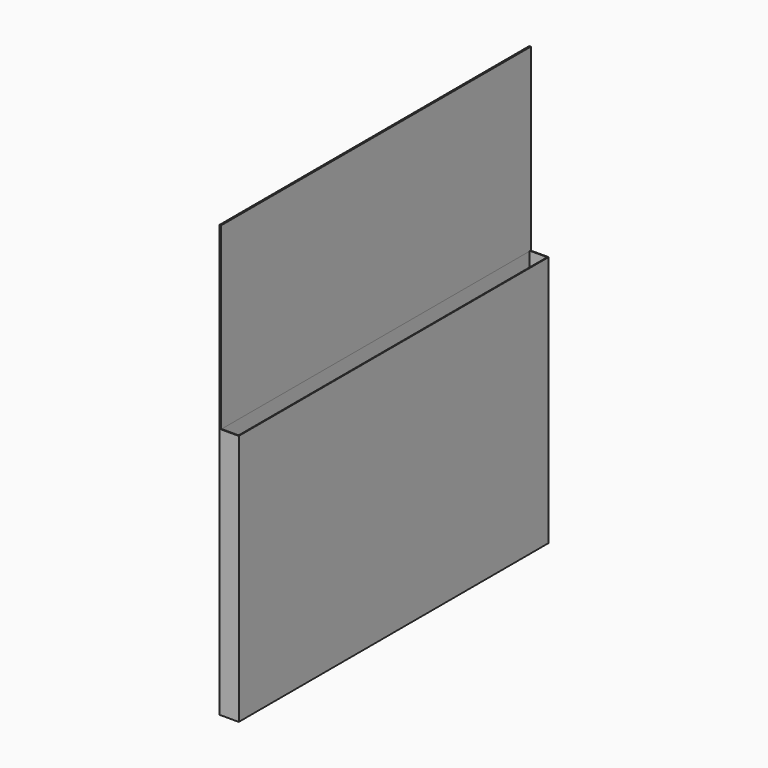
from build123d import *

# Parameters (mm, degrees)
F0_W     = 6.35
F0_H     = 57.15
F1_DEPTH = 127
F2_W     = 5.842
F2_H     = 126.492
F3_DEPTH = 53.086
F5_DEPTH = 25.4
F6_W     = 6.35
F6_H     = 24.5786048472
F7_DEPTH = 2.54
F8_W     = 127
F8_H     = 58.8536623478
F9_DEPTH = 0.508


with BuildPart() as f1:
    # F0 (on Front) → F1 (new body)
    with BuildSketch(Plane.XZ):
        with Locations((3.175, 28.575)):
            Rectangle(F0_W, F0_H)
    extrude(amount=F1_DEPTH)


with BuildPart() as f3:
    # F2 (on face) → F3 (new body)
    with BuildSketch(Plane.XY.offset(57.15)):
        with Locations((3.175, -63.5)):
            Rectangle(F2_W, F2_H)
    extrude(amount=-F3_DEPTH)


with BuildPart() as f1_1:
    add(f1.part)

    # F4: cut F3
    add(f3.part, mode=Mode.SUBTRACT)

    # F5 (add): a face of the model
    f5_faces = [f1_1.faces().sort_by_distance(p)[0] for p in [
        (3.175, -63.5, 0),
    ]]
    extrude(f5_faces, amount=F5_DEPTH)

    # F6 (on face) → F7 (join)
    with BuildSketch(Plane(origin=(0, 0, -25.4), x_dir=(1, 0, 0), z_dir=(0, 0, -1))):
        with Locations((3.175, 63.9524813741)):
            Rectangle(F6_W, F6_H)
    extrude(amount=-F7_DEPTH)


with BuildPart() as f9:
    # F8 (on face) → F9 (new body)
    with BuildSketch(Plane(origin=(0, 0, 0), x_dir=(0, -1, 0), z_dir=(-1, 0, 0))):
        with Locations((63.5, 86.5768311739)):
            Rectangle(F8_W, F8_H)
    extrude(amount=-F9_DEPTH)


solid = Compound([f1_1.part, f9.part])
